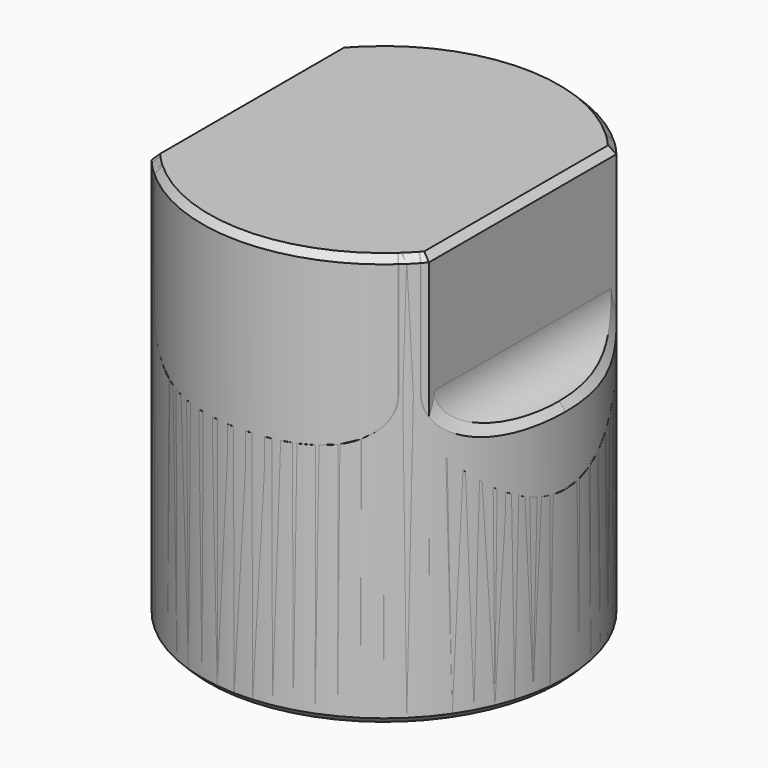
from build123d import *

# Parameters (mm, degrees)
SKETCH_R              = 11
PAD_DEPTH             = 25
POCKET_DEPTH          = 90.825808
POCKET_DEPTH_BACK     = 90.825808
POLARPATTERN_COUNT    = 4
SKETCH002_W           = 6.5
SKETCH002_H           = 6.5
POCKET001_DEPTH       = 9
SKETCH003_R           = 1
POCKET002_DEPTH       = 1.5
POLARPATTERN001_COUNT = 4
CHAMFER_SIZE          = 0.4
POCKET003_DEPTH       = 15
CHAMFER001_SIZE       = 5
SKETCH005_R           = 2
POCKET004_DEPTH       = 10.001
CHAMFER002_SIZE       = 0.4
SKETCH006_R           = 11
PAD001_DEPTH          = 25
SKETCH007_W           = 9.7
SKETCH007_H           = 9.7
POCKET005_DEPTH       = 9
SKETCH008_R           = 1.5
POCKET006_DEPTH       = 2
POLARPATTERN002_COUNT = 4
SKETCH009_W           = 41.344253
SKETCH009_H           = 47.779286
SKETCH009_W_2         = 16.8
SKETCH009_H_2         = 33.408824
POCKET007_DEPTH       = 10
POCKET008_DEPTH       = 90.825808
POCKET008_DEPTH_BACK  = 90.825808
CHAMFER003_SIZE       = 0.4
SKETCH011_R           = 11
PAD002_DEPTH          = 25
SKETCH012_W           = 9.7
SKETCH012_H           = 9.7
POCKET009_DEPTH       = 9
SKETCH013_R           = 1.5
POCKET010_DEPTH       = 2
POLARPATTERN003_COUNT = 4
SKETCH014_W           = 41.344253
SKETCH014_H           = 47.779286
SKETCH014_W_2         = 16.8
SKETCH014_H_2         = 33.408824
POCKET011_DEPTH       = 10
POCKET012_DEPTH       = 90.825808
POCKET012_DEPTH_BACK  = 90.825808
CHAMFER004_SIZE       = 0.4


with BuildPart() as body:
    # Sketch → Pad (new body)
    with BuildSketch(Plane.XY):
        Circle(SKETCH_R)
    extrude(amount=PAD_DEPTH)

    # Sketch001 → Pocket (cut, two sides)
    with BuildSketch(Plane.XZ) as pocket_sk:
        with BuildLine():
            ThreePointArc((-11, 15), (-9.161522, 15.761522), (-8.4, 17.6))
            Line((-8.4, 17.6), (-8.4, 25))
            Line((-11, 25), (-8.4, 25))
            Line((-11, 15), (-11, 25))
        make_face()
    pocket = extrude(amount=-POCKET_DEPTH, mode=Mode.SUBTRACT) + extrude(pocket_sk.sketch, amount=POCKET_DEPTH_BACK, mode=Mode.SUBTRACT)

    # PolarPattern: Pocket ×4 about axis
    polarpattern_axis = Axis((0, 0, 0), (0, 0, 1))
    for i in range(1, POLARPATTERN_COUNT):
        add(pocket.rotate(polarpattern_axis, i * 360 / POLARPATTERN_COUNT), mode=Mode.SUBTRACT)

    # Sketch002 (on Face4 of PolarPattern) → Pocket001 (cut)
    with BuildSketch(Plane.XY.offset(25)):
        with Locations((0, -0.05)):
            Rectangle(SKETCH002_W, SKETCH002_H)
    extrude(amount=-POCKET001_DEPTH, mode=Mode.SUBTRACT)

    # Sketch003 → Pocket002 (cut, symmetric)
    with BuildSketch(Plane.XZ):
        with Locations((-2.75, 21.5)):
            Circle(SKETCH003_R)
    pocket002 = extrude(amount=POCKET002_DEPTH, both=True, mode=Mode.SUBTRACT)

    # PolarPattern001: Pocket002 ×4 about axis
    polarpattern001_axis = Axis((0, 0, 0), (0, 0, 1))
    for i in range(1, POLARPATTERN001_COUNT):
        add(pocket002.rotate(polarpattern001_axis, i * 360 / POLARPATTERN001_COUNT), mode=Mode.SUBTRACT)

    # Chamfer
    chamfer_edges = [body.edges().sort_by_distance(p)[0] for p in [
        (-8.4, 0, 25),
        (-7.778175, -7.778175, 25),
        (-7.778175, 7.778175, 25),
        (0, -8.4, 25),
        (0, 8.4, 25),
        (7.778175, -7.778175, 25),
        (7.778175, 7.778175, 25),
        (8.4, 0, 25),
        (-3.25, -0.05, 25),
        (0, -3.3, 25),
        (3.25, -0.05, 25),
        (0, 3.2, 25),
        (-10.113606, -4.326081, 15.155761),
        (-4.326081, -10.113606, 15.155761),
        (10.113606, 4.326081, 15.155761),
        (4.326081, 10.113606, 15.155761),
    ]]
    chamfer(chamfer_edges, length=CHAMFER_SIZE)

    # Sketch004 (on Face3 of Chamfer) → Pocket003 (cut)
    with BuildSketch(Plane(origin=(0, 0, 0), x_dir=(1, 0, 0), z_dir=(0, 0, -1))):
        Polygon((7.736494, 0), (3.868247, 6.7), (-3.868247, 6.7), (-7.736494, 0), (-3.868247, -6.7), (3.868247, -6.7), align=None)
    extrude(amount=-POCKET003_DEPTH, mode=Mode.SUBTRACT)

    # Chamfer001
    chamfer001_edges = [body.edges().sort_by_distance(p)[0] for p in [
        (5.80237, -3.35, 15),
        (0, -6.7, 15),
        (-5.80237, -3.35, 15),
        (-5.80237, 3.35, 15),
        (0, 6.7, 15),
        (5.80237, 3.35, 15),
    ]]
    chamfer(chamfer001_edges, length=CHAMFER001_SIZE)

    # Sketch005 (on Face8 of Chamfer001) → Pocket004 (cut, through all)
    with BuildSketch(Plane(origin=(0, 0, 15), x_dir=(1, 0, 0), z_dir=(0, 0, -1))):
        Circle(SKETCH005_R)
    extrude(amount=-POCKET004_DEPTH, mode=Mode.SUBTRACT)

    # Chamfer002
    chamfer002_edges = [body.edges().sort_by_distance(p)[0] for p in [
        (-11, 0, 0),
        (5.80237, 3.35, 0),
        (0, 6.7, 0),
        (-5.80237, 3.35, 0),
        (-5.80237, -3.35, 0),
        (0, -6.7, 0),
        (5.80237, -3.35, 0),
    ]]
    chamfer(chamfer002_edges, length=CHAMFER002_SIZE)


with BuildPart() as chamfer003:
    # Sketch006 → Pad001 (new body)
    with BuildSketch(Plane.XY):
        Circle(SKETCH006_R)
    extrude(amount=PAD001_DEPTH)

    # Sketch007 (on Face2 of Pad001) → Pocket005 (cut)
    with BuildSketch(Plane(origin=(0, 0, 0), x_dir=(1, 0, 0), z_dir=(0, 0, -1))):
        Rectangle(SKETCH007_W, SKETCH007_H)
    extrude(amount=-POCKET005_DEPTH, mode=Mode.SUBTRACT)

    # Sketch008 → Pocket006 (cut, symmetric)
    with BuildSketch(Plane.XZ):
        with Locations((-4.35, 4.5)):
            Circle(SKETCH008_R)
    pocket006 = extrude(amount=POCKET006_DEPTH, both=True, mode=Mode.SUBTRACT)

    # PolarPattern002: Pocket006 ×4 about axis
    polarpattern002_axis = Axis((0, 0, 0), (0, 0, 1))
    for i in range(1, POLARPATTERN002_COUNT):
        add(pocket006.rotate(polarpattern002_axis, i * 360 / POLARPATTERN002_COUNT), mode=Mode.SUBTRACT)

    # Sketch009 (on Face3 of PolarPattern002) → Pocket007 (cut)
    with BuildSketch(Plane.XY.offset(25)):
        with Locations((0.434154, 0.415613)):
            Rectangle(SKETCH009_W, SKETCH009_H)
        with Locations((0, 0.83239)):
            Rectangle(SKETCH009_W_2, SKETCH009_H_2, mode=Mode.SUBTRACT)
    extrude(amount=-POCKET007_DEPTH, mode=Mode.SUBTRACT)

    # Sketch010 → Pocket008 (cut, two sides)
    with BuildSketch(Plane.XZ) as pocket008_sk:
        Polygon((-8.4, 15), (-11, 10.475959), (-11, 15), align=None)
    pocket008 = extrude(amount=-POCKET008_DEPTH, mode=Mode.SUBTRACT) + extrude(pocket008_sk.sketch, amount=POCKET008_DEPTH_BACK, mode=Mode.SUBTRACT)

    # Mirrored: Pocket008 across Sketch010 V_Axis
    add(pocket008.mirror(Plane(origin=(0, 0, 0), x_dir=(0, -1, 0), z_dir=(1, 0, 0))), mode=Mode.SUBTRACT)

    # Chamfer003
    chamfer003_edges = [chamfer003.edges().sort_by_distance(p)[0] for p in [
        (8.4, 0, 25),
        (0, -11, 25),
        (-8.4, 0, 25),
        (0, 11, 25),
        (-11, 0, 0),
        (0, -4.85, 0),
        (4.85, 0, 0),
        (0, 4.85, 0),
        (-4.85, 0, 0),
    ]]
    chamfer(chamfer003_edges, length=CHAMFER003_SIZE)


with BuildPart() as body001:
    # Sketch011 → Pad002 (new body)
    with BuildSketch(Plane.XY):
        Circle(SKETCH011_R)
    extrude(amount=PAD002_DEPTH)

    # Sketch012 (on Face2 of Pad002) → Pocket009 (cut)
    with BuildSketch(Plane(origin=(0, 0, 0), x_dir=(1, 0, 0), z_dir=(0, 0, -1))):
        Rectangle(SKETCH012_W, SKETCH012_H)
    extrude(amount=-POCKET009_DEPTH, mode=Mode.SUBTRACT)

    # Sketch013 → Pocket010 (cut, symmetric)
    with BuildSketch(Plane.XZ):
        with Locations((-4.35, 4.5)):
            Circle(SKETCH013_R)
    pocket010 = extrude(amount=POCKET010_DEPTH, both=True, mode=Mode.SUBTRACT)

    # PolarPattern003: Pocket010 ×4 about axis
    polarpattern003_axis = Axis((0, 0, 0), (0, 0, 1))
    for i in range(1, POLARPATTERN003_COUNT):
        add(pocket010.rotate(polarpattern003_axis, i * 360 / POLARPATTERN003_COUNT), mode=Mode.SUBTRACT)

    # Sketch014 (on Face3 of PolarPattern003) → Pocket011 (cut)
    with BuildSketch(Plane.XY.offset(25)):
        with Locations((0.434154, 0.415613)):
            Rectangle(SKETCH014_W, SKETCH014_H)
        with Locations((0, 0.83239)):
            Rectangle(SKETCH014_W_2, SKETCH014_H_2, mode=Mode.SUBTRACT)
    extrude(amount=-POCKET011_DEPTH, mode=Mode.SUBTRACT)

    # Sketch015 → Pocket012 (cut, two sides)
    with BuildSketch(Plane.XZ) as pocket012_sk:
        Polygon((-8.4, 15), (-11, 10.475959), (-11, 15), align=None)
    pocket012 = extrude(amount=-POCKET012_DEPTH, mode=Mode.SUBTRACT) + extrude(pocket012_sk.sketch, amount=POCKET012_DEPTH_BACK, mode=Mode.SUBTRACT)

    # Mirrored001: Pocket012 across Sketch015 V_Axis
    add(pocket012.mirror(Plane(origin=(0, 0, 0), x_dir=(0, -1, 0), z_dir=(1, 0, 0))), mode=Mode.SUBTRACT)

    # Chamfer004
    chamfer004_edges = [body001.edges().sort_by_distance(p)[0] for p in [
        (8.4, 0, 25),
        (0, -11, 25),
        (-8.4, 0, 25),
        (0, 11, 25),
        (-11, 0, 0),
        (0, -4.85, 0),
        (4.85, 0, 0),
        (0, 4.85, 0),
        (-4.85, 0, 0),
    ]]
    chamfer(chamfer004_edges, length=CHAMFER004_SIZE)


solid = Compound([body.part, chamfer003.part, body001.part])
